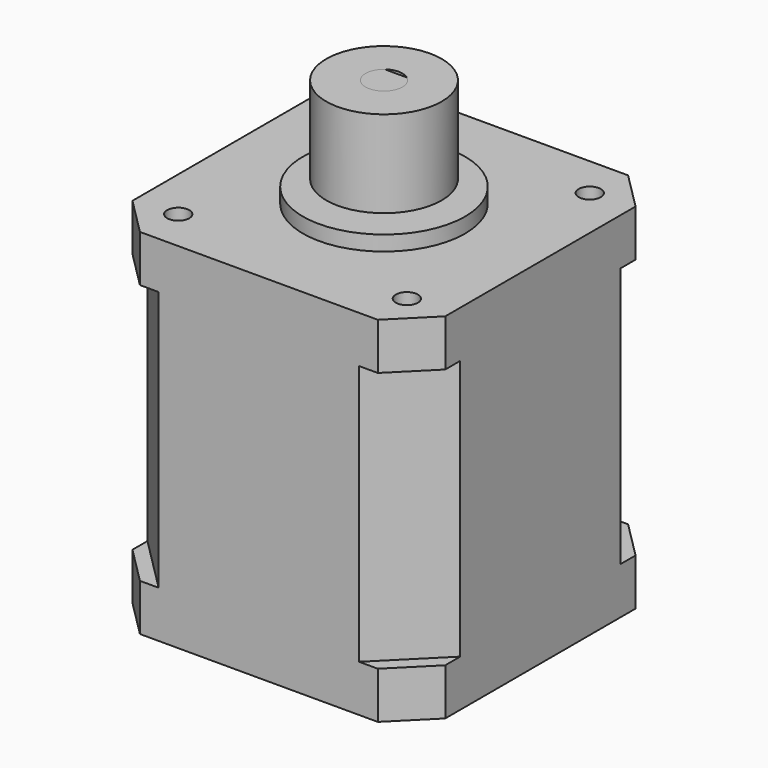
from build123d import *

# Parameters (mm, degrees)
F0_W      = 42.418
F0_H      = 42.418
F1_DEPTH  = 17.653
F2_SIZE   = 7.62
F4_DEPTH  = 6.35
F5_SIZE   = 5.08
F7_DEPTH  = 6.35
F8_R      = 10.9982
F9_DEPTH  = 2.032
F10_R     = 2.5
F11_DEPTH = 12.7
F13_DEPTH = 10.16
F14_R     = 1.5
F15_DEPTH = 6.35
F16_R     = 7.8307434495
F17_DEPTH = 11.79723


with BuildPart() as f1:
    # F0 (on Top) → F1 (new body, symmetric)
    with BuildSketch(Plane.XY):
        Rectangle(F0_W, F0_H)
    extrude(amount=F1_DEPTH, both=True)

    # F2
    f2_edges = [f1.edges().sort_by_distance(p)[0] for p in [
        (21.209, 21.209, 0),
        (-21.209, 21.209, 0),
        (-21.209, -21.209, 0),
        (21.209, -21.209, 0),
    ]]
    chamfer(f2_edges, length=F2_SIZE)

    # F3 (on face) → F4 (join)
    with BuildSketch(Plane.XY.offset(17.653)):
        Polygon((13.589, 21.209), (-13.589, 21.209), (-21.209, 13.589), (-21.209, -13.589), (-13.589, -21.209), (13.589, -21.209), (21.209, -13.589), (21.209, 13.589), align=None)
        Polygon((21.209, 21.209), (13.589, 21.209), (21.209, 13.589), align=None)
        Polygon((-13.589, 21.209), (-21.209, 21.209), (-21.209, 13.589), align=None)
        Polygon((-13.589, -21.209), (-21.209, -13.589), (-21.209, -21.209), align=None)
        Polygon((21.209, -21.209), (21.209, -13.589), (13.589, -21.209), align=None)
    extrude(amount=F4_DEPTH)

    # F5
    f5_edges = [f1.edges().sort_by_distance(p)[0] for p in [
        (21.209, 21.209, 20.828),
        (-21.209, 21.209, 20.828),
        (-21.209, -21.209, 20.828),
        (21.209, -21.209, 20.828),
    ]]
    chamfer(f5_edges, length=F5_SIZE)

    # F6 (on face) → F7 (join)
    with BuildSketch(Plane(origin=(0, 0, -17.653), x_dir=(1, 0, 0), z_dir=(0, 0, -1))):
        Polygon((-13.589, 21.209), (-16.129, 21.209), (-21.209, 16.129), (-21.209, 13.589), align=None)
        Polygon((16.129, 21.209), (13.589, 21.209), (21.209, 13.589), (21.209, 16.129), align=None)
        Polygon((21.209, -16.129), (21.209, -13.589), (13.589, -21.209), (16.129, -21.209), align=None)
        Polygon((-13.589, -21.209), (-21.209, -13.589), (-21.209, -16.129), (-16.129, -21.209), align=None)
        Polygon((13.589, 21.209), (-13.589, 21.209), (-21.209, 13.589), (-21.209, -13.589), (-13.589, -21.209), (13.589, -21.209), (21.209, -13.589), (21.209, 13.589), align=None)
    extrude(amount=F7_DEPTH)

    # F8 (on face) → F9 (join)
    with BuildSketch(Plane.XY.offset(24.003)):
        Circle(F8_R)
    extrude(amount=F9_DEPTH)

    # F10 (on face) → F11 (join)
    with BuildSketch(Plane.XY.offset(26.035)):
        Circle(F10_R)
    extrude(amount=F11_DEPTH)

    # F12 (on face) → F13 (cut)
    with BuildSketch(Plane.XY.offset(38.735)):
        with BuildLine():
            Line((2.6203631624, 2.9334036984), (-2.6333660554, 2.9334036984))
            Line((-2.6333660554, 2.9334036984), (-2.6333660554, 2))
            Line((-2.6333660554, 2), (-1.5, 2))
            ThreePointArc((-1.5, 2), (0, 2.5), (1.5, 2))
            Line((1.5, 2), (2.6203631624, 2))
            Line((2.6203631624, 2), (2.6203631624, 2.9334036984))
        make_face()
        with BuildLine():
            ThreePointArc((1.5, 2), (0, 2.5), (-1.5, 2))
            Line((-1.5, 2), (1.5, 2))
        make_face()
    extrude(amount=-F13_DEPTH, mode=Mode.SUBTRACT)

    # F14 (on face) → F15 (cut)
    with BuildSketch(Plane.XY.offset(24.003)):
        with Locations((-15.5, 15.5)):
            Circle(F14_R)
        with Locations((15.5, 15.5)):
            Circle(F14_R)
        with Locations((15.5, -15.5)):
            Circle(F14_R)
        with Locations((-15.5, -15.5)):
            Circle(F14_R)
    extrude(amount=-F15_DEPTH, mode=Mode.SUBTRACT)


with BuildPart() as f17:
    # F16 (on face) → F17 (new body)
    with BuildSketch(Plane.XY.offset(38.735)):
        Circle(F16_R)
        with BuildLine():
            ThreePointArc((1.5, 2), (2.2360679775, 1.1180339887), (2.5, 0))
            ThreePointArc((2.5, 0), (-1.1180339887, -2.2360679775), (-1.5, 2))
            ThreePointArc((-1.5, 2), (0, 2.5), (1.5, 2))
        make_face(mode=Mode.SUBTRACT)
    extrude(amount=-F17_DEPTH)


solid = Compound([f1.part, f17.part])
